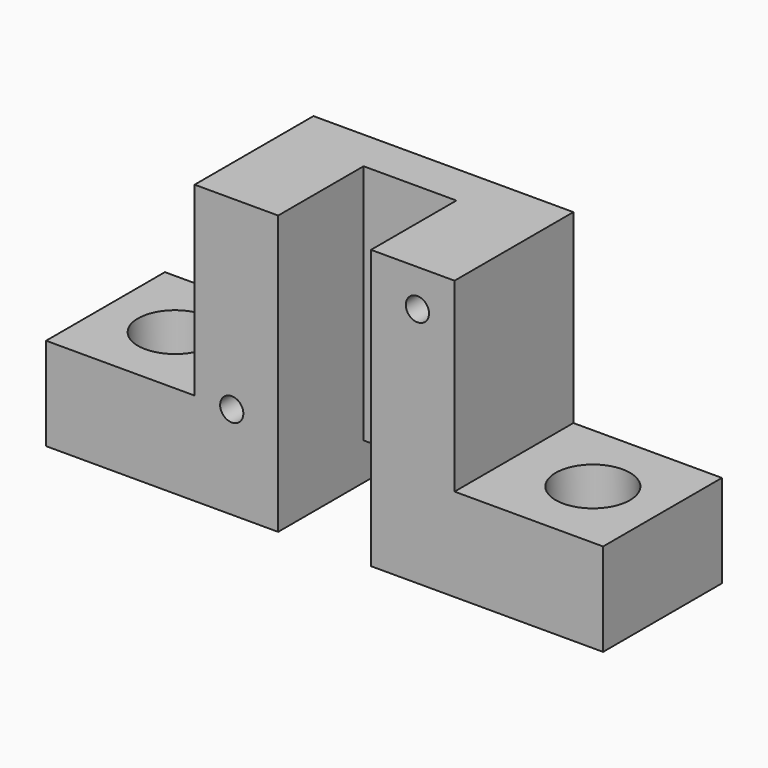
from build123d import *

# Parameters (mm, degrees)
F1_DEPTH       = 16
F2_W           = 10
F2_H           = 11.5
F3_DEPTH       = 30.001
F4_W           = 10
F4_H           = 4
F5_DEPTH       = 16.001
F7_D           = 2.5
F7_DEPTH       = 10
F7_TIP         = 0.7510757738
F9_D           = 4.5
F9_DEPTH       = 10
F9_CBORE_D     = 8
F9_CBORE_DEPTH = 4.4
F9_TIP         = 1.3519363928
F10_R          = 5
F11_DEPTH      = 1


with BuildPart() as f1:
    # F0 (on Front) → F1 (new body)
    with BuildSketch(Plane.XZ):
        Polygon((14, 30), (0, 30), (-14, 30), (-14, 10), (-30, 10), (-30, 0), (0, 0), (30, 0), (30, 10), (14, 10), align=None)
    extrude(amount=F1_DEPTH)

    # F2 (on face) → F3 (cut, through all)
    with BuildSketch(Plane.XY.offset(30)):
        with Locations((0, -10.25)):
            Rectangle(F2_W, F2_H)
    extrude(amount=-F3_DEPTH, mode=Mode.SUBTRACT)

    # F4 (on face) → F5 (cut, through all)
    with BuildSketch(Plane(origin=(0, 0, 0), x_dir=(-1, 0, 0), z_dir=(0, 1, 0))):
        with Locations((0, 2)):
            Rectangle(F4_W, F4_H)
    extrude(amount=-F5_DEPTH, mode=Mode.SUBTRACT)

    # F7
    with Locations(Plane.XZ.offset(16)):
        with Locations((10, 26), (-10, 10)):
            Hole(F7_D / 2, depth=F7_DEPTH)
            with Locations((0, 0, -(F7_DEPTH + F7_TIP / 2))):  # 118° drill point
                Cone(0, F7_D / 2, F7_TIP, mode=Mode.SUBTRACT)

    # F9
    with Locations(Plane.XY.offset(10)):
        with Locations((22.5, -8), (-22.5, -8)):
            CounterBoreHole(F9_D / 2, F9_CBORE_D / 2, F9_CBORE_DEPTH, depth=F9_DEPTH)
            with Locations((0, 0, -(F9_DEPTH + F9_TIP / 2))):  # 118° drill point
                Cone(0, F9_D / 2, F9_TIP, mode=Mode.SUBTRACT)

    # F10 (on face) → F11 (cut)
    with BuildSketch(Plane(origin=(0, 0, 0), x_dir=(-1, 0, 0), z_dir=(0, 1, 0))):
        with Locations((0, 11)):
            Circle(F10_R)
    extrude(amount=-F11_DEPTH, mode=Mode.SUBTRACT)


solid = f1.part
